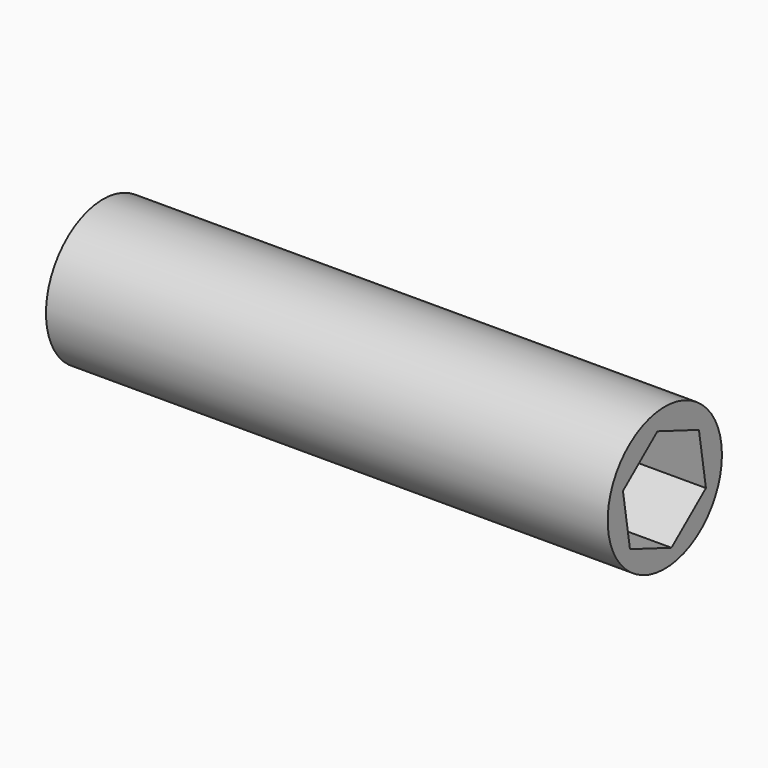
from build123d import *

# Parameters (mm, degrees)
F0_R     = 5.719211
F1_DEPTH = 45
F3_DEPTH = 45.001


with BuildPart() as f1:
    # F0 (on Right) → F1 (new body)
    with BuildSketch(Plane.YZ):
        with Locations((-26.867531, 8.05353)):
            Circle(F0_R)
    extrude(amount=F1_DEPTH)

    # F2 (on Right) → F3 (cut, through all)
    with BuildSketch(Plane.YZ):
        Polygon((-26.200977, 3.548784), (-22.749203, 6.353351), (-23.452142, 10.744959), (-27.606855, 12.332), (-31.058629, 9.527433), (-30.355691, 5.135825), align=None)
    extrude(amount=F3_DEPTH, mode=Mode.SUBTRACT)


solid = f1.part
